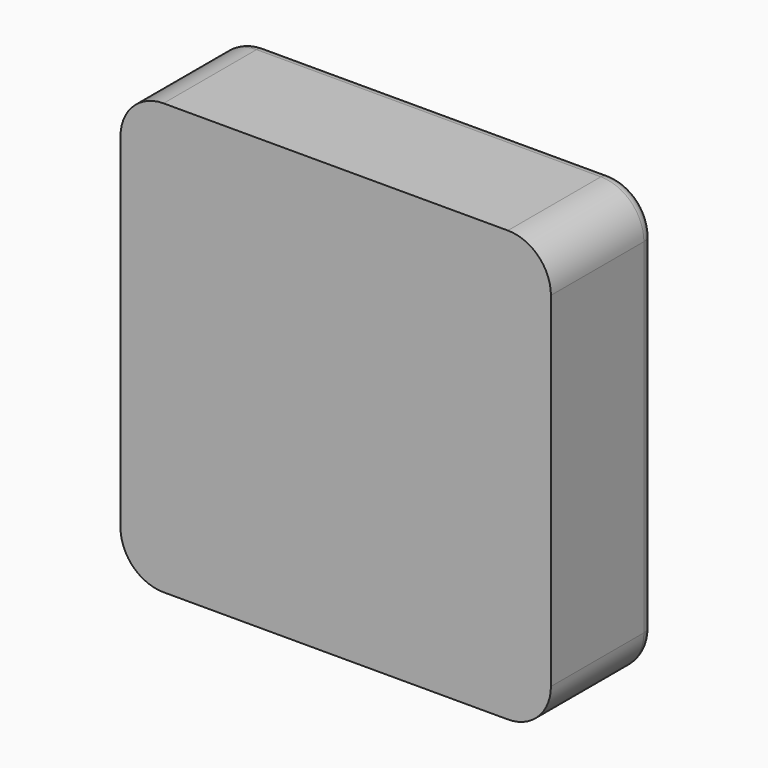
from build123d import *

# Parameters (mm, degrees)
F0_W     = 100
F0_H     = 100
F1_DEPTH = 30
F2_R     = 10
F3_R     = 3


with BuildPart() as f1:
    # F0 (on Front) → F1 (new body)
    with BuildSketch(Plane.XZ):
        with Locations((50, 50)):
            Rectangle(F0_W, F0_H)
    extrude(amount=F1_DEPTH)

    # F2
    f2_edges = [f1.edges().sort_by_distance(p)[0] for p in [
        (0, -15, 100),
        (0, -15, 0),
        (100, -15, 0),
        (100, -15, 100),
    ]]
    fillet(f2_edges, radius=F2_R)

    # F3
    f3_edges = [f1.edges().sort_by_distance(p)[0] for p in [
        (0, 0, 50),
        (2.928932, 0, 97.071068),
        (2.928932, 0, 2.928932),
        (50, 0, 100),
        (50, 0, 0),
        (97.071068, 0, 97.071068),
        (97.071068, 0, 2.928932),
        (100, 0, 50),
    ]]
    fillet(f3_edges, radius=F3_R)


solid = f1.part
